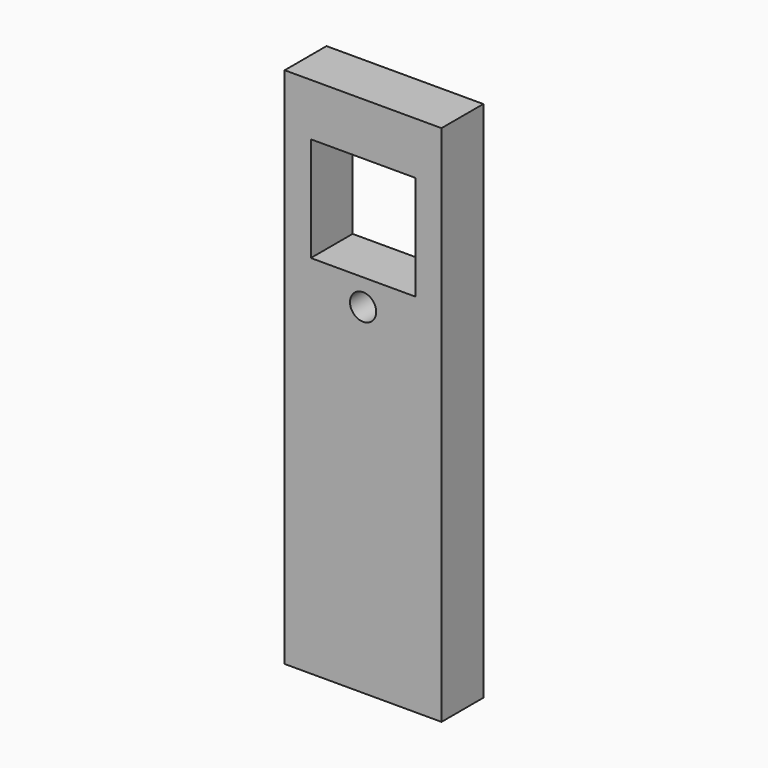
from build123d import *

# Parameters (mm, degrees)
F0_W     = 30
F0_H     = 100
F0_R     = 2.5
F0_W_2   = 20
F0_H_2   = 20
F1_DEPTH = 10


with BuildPart() as f1:
    # F0 (on Front) → F1 (new body)
    with BuildSketch(Plane.XZ):
        Rectangle(F0_W, F0_H)
        with Locations((0, 15)):
            Circle(F0_R, mode=Mode.SUBTRACT)
        with Locations((0, 30)):
            Rectangle(F0_W_2, F0_H_2, mode=Mode.SUBTRACT)
    extrude(amount=F1_DEPTH)


solid = f1.part
